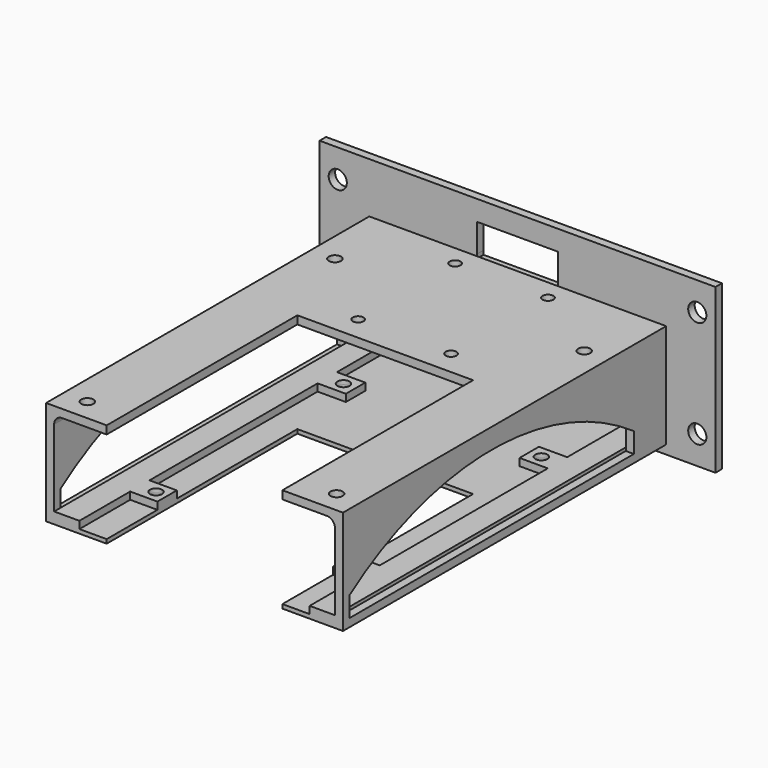
from build123d import *

# Parameters (mm, degrees)
SKETCH020_W        = 98
SKETCH020_H        = 40.5
SKETCH020_R        = 2.25
SKETCH020_W_2      = 53
SKETCH020_H_2      = 18
SKETCH020_W_3      = 20
SKETCH020_H_3      = 7
PAD006_DEPTH       = 2
SKETCH022_W        = 69.5
SKETCH022_H        = 22
PAD007_DEPTH       = 100
POCKET009_DEPTH    = 85.801
SKETCH024_R        = 1.5
SKETCH024_R_2      = 1.325
POCKET010_DEPTH    = 5
SKETCH026_R        = 1.5
POCKET011_DEPTH    = 5
POCKET012_DEPTH    = 5
SKETCH031_W        = 73.5
SKETCH031_H        = 100
PAD013_DEPTH       = 1
PAD013_FACE55_R    = 1.5
PAD014_DEPTH       = 1
PAD014_FACE59_R    = 1.5
PAD015_DEPTH       = 1
PAD015_FACE27_W    = 2
PAD015_FACE27_H    = 53
POCKET013_DEPTH    = 1
POCKET013_FACE28_W = 2
POCKET013_FACE28_H = 53
PAD016_DEPTH       = 1
SKETCH032_W        = 43.5
SKETCH032_H        = 59
POCKET014_DEPTH    = 28.001
POCKET014_FACE11_W = 2
POCKET014_FACE11_H = 20
POCKET015_DEPTH    = 1
FILLET_R           = 2


with BuildPart() as part:
    # Sketch020 → Pad006 (new body)
    with BuildSketch(Plane.XZ):
        with Locations((56.7, 0)):
            Rectangle(SKETCH020_W, SKETCH020_H)
        with Locations((12.2, 13.25)):
            Circle(SKETCH020_R, mode=Mode.SUBTRACT)
        with Locations((12.2, -13.25)):
            Circle(SKETCH020_R, mode=Mode.SUBTRACT)
        with Locations((101.2, -13.25)):
            Circle(SKETCH020_R, mode=Mode.SUBTRACT)
        with Locations((101.2, 13.25)):
            Circle(SKETCH020_R, mode=Mode.SUBTRACT)
        with Locations((56.7, -6.25)):
            Rectangle(SKETCH020_W_2, SKETCH020_H_2, mode=Mode.SUBTRACT)
        with Locations((56.7, 11.75)):
            Rectangle(SKETCH020_W_3, SKETCH020_H_3, mode=Mode.SUBTRACT)
    extrude(amount=-PAD006_DEPTH)

    # Sketch022 (on Face17 of Pad006) → Pad007 (join)
    with BuildSketch(Plane.XZ):
        Polygon((93.5, 7.75), (93.5, -18.05), (20, -18.05), (20, -16.25), (20, 7.75), align=None)
        with Locations((56.75, -5.25)):
            Rectangle(SKETCH022_W, SKETCH022_H, mode=Mode.SUBTRACT)
    extrude(amount=PAD007_DEPTH)

    # Sketch023 (on Face13 of Pad007) → Pocket009 (cut, through all)
    with BuildSketch(Plane(origin=(93.5, 0, 0), x_dir=(0, 0, 1), z_dir=(1, 0, 0))):
        with BuildLine():
            Line((-11.05, 10), (-16.05, 10))
            Line((-16.05, 10), (-16.05, 98))
            Line((-16.05, 98), (-11.05, 98))
            ThreePointArc((-11.05, 10), (2.75, 54), (-11.05, 98))
        make_face()
    extrude(amount=-POCKET009_DEPTH, mode=Mode.SUBTRACT)

    # Sketch024 (on Face11 of Pocket009) → Pocket010 (cut)
    with BuildSketch(Plane(origin=(0, 0, 8.25), x_dir=(-1, 0, 0), z_dir=(0, 0, 1))):
        with Locations((-87.6, 94.6)):
            Circle(SKETCH024_R)
        with Locations((-25.89, 94.6)):
            Circle(SKETCH024_R)
        with Locations((-87.6, 18)):
            Circle(SKETCH024_R)
        with Locations((-25.89, 18)):
            Circle(SKETCH024_R)
        with Locations((-68.245, 5)):
            Circle(SKETCH024_R_2)
        with Locations((-45.245, 5)):
            Circle(SKETCH024_R_2)
        with Locations((-68.245, 35)):
            Circle(SKETCH024_R_2)
        with Locations((-45.245, 35)):
            Circle(SKETCH024_R_2)
    extrude(amount=-POCKET010_DEPTH, mode=Mode.SUBTRACT)

    # Sketch026 → Pocket011 (cut)
    with BuildSketch(Plane(origin=(0, 0, -18.05), x_dir=(1, 0, 0), z_dir=(0, 0, -1))):
        with Locations((81.24, 81.3)):
            Circle(SKETCH026_R)
        with Locations((81.24, 23.3)):
            Circle(SKETCH026_R)
        with Locations((32.25, 81.3)):
            Circle(SKETCH026_R)
        with Locations((32.25, 23.3)):
            Circle(SKETCH026_R)
    extrude(amount=-POCKET011_DEPTH, mode=Mode.SUBTRACT)

    # Sketch027 (on Face14 of Pocket011) → Pocket012 (cut)
    with BuildSketch(Plane(origin=(0, 0, -18.05), x_dir=(1, 0, 0), z_dir=(0, 0, -1))):
        Polygon((28.25, 84.3), (35.25, 84.3), (35.25, 78.3), (28.25, 78.3), (28.25, 26.3), (35.25, 26.3), (35.25, 20.3), (28.25, 20.3), (28.25, 0), (85.24, 0), (85.24, 20.3), (78.24, 20.3), (78.24, 26.3), (85.24, 26.3), (85.24, 78.3), (78.24, 78.3), (78.24, 84.3), (85.24, 84.3), (85.24, 100), (28.25, 100), align=None)
    extrude(amount=-POCKET012_DEPTH, mode=Mode.SUBTRACT)

    # Sketch031 → Pad013 (join)
    with BuildSketch(Plane(origin=(0, 0, -18.05), x_dir=(1, 0, 0), z_dir=(0, 0, -1))):
        with Locations((56.75, 50)):
            Rectangle(SKETCH031_W, SKETCH031_H)
    extrude(amount=-PAD013_DEPTH)

    # Pad013 Face55 → Pad014 (add)
    with BuildSketch(Plane(origin=(25.780917, -50.231246, -16.25), x_dir=(0, 1, 0), z_dir=(0, 0, 1))):
        Polygon((50.231246, -2.469083), (50.231246, 3.780917), (-49.768754, 3.780917), (-49.768754, -2.469083), (-34.068754, -2.469083), (-34.068754, -9.469083), (-28.068754, -9.469083), (-28.068754, -2.469083), (23.931246, -2.469083), (23.931246, -9.469083), (29.931246, -9.469083), (29.931246, -2.469083), align=None)
        with Locations((-31.068754, -6.469083)):
            Circle(PAD013_FACE55_R, mode=Mode.SUBTRACT)
        with Locations((26.931246, -6.469083)):
            Circle(PAD013_FACE55_R, mode=Mode.SUBTRACT)
    extrude(amount=PAD014_DEPTH)

    # Pad014 Face59 → Pad015 (add)
    with BuildSketch(Plane(origin=(87.714523, -50.230914, -16.25), x_dir=(0, 1, 0), z_dir=(0, 0, 1))):
        Polygon((50.230914, -3.785477), (50.230914, 2.474523), (29.930914, 2.474523), (29.930914, 9.474523), (23.930914, 9.474523), (23.930914, 2.474523), (-28.069086, 2.474523), (-28.069086, 9.474523), (-34.069086, 9.474523), (-34.069086, 2.474523), (-49.769086, 2.474523), (-49.769086, -3.785477), align=None)
        with Locations((-31.069086, 6.474523)):
            Circle(PAD014_FACE59_R, mode=Mode.SUBTRACT)
        with Locations((26.930914, 6.474523)):
            Circle(PAD014_FACE59_R, mode=Mode.SUBTRACT)
    extrude(amount=PAD015_DEPTH)

    # Pad015 Face27 → Pocket013 (cut)
    with BuildSketch(Plane(origin=(56.7, 1, 2.75), x_dir=(0, -1, 0), z_dir=(0, 0, -1))):
        Rectangle(PAD015_FACE27_W, PAD015_FACE27_H)
    extrude(amount=-POCKET013_DEPTH, mode=Mode.SUBTRACT)

    # Pocket013 Face28 → Pad016 (add)
    with BuildSketch(Plane(origin=(56.7, 1, -15.25), x_dir=(0, 1, 0), z_dir=(0, 0, 1))):
        Rectangle(POCKET013_FACE28_W, POCKET013_FACE28_H)
    extrude(amount=PAD016_DEPTH)

    # Sketch032 (on Face21 of Pad016) → Pocket014 (cut, through all)
    with BuildSketch(Plane(origin=(0, 0, 7.75), x_dir=(-1, 0, 0), z_dir=(0, 0, 1))):
        with Locations((-56.75, 70.5)):
            Rectangle(SKETCH032_W, SKETCH032_H)
    extrude(amount=-POCKET014_DEPTH, mode=Mode.SUBTRACT)

    # Pocket014 Face11 → Pocket015 (cut)
    with BuildSketch(Plane(origin=(56.7, 1, 8.25), x_dir=(0, 1, 0), z_dir=(0, 0, 1))):
        Rectangle(POCKET014_FACE11_W, POCKET014_FACE11_H)
    extrude(amount=-POCKET015_DEPTH, mode=Mode.SUBTRACT)

    # Fillet
    fillet_edges = [part.edges().sort_by_distance(p)[0] for p in [
        (91.5, -50, 5.75),
        (22, -50, 5.75),
    ]]
    fillet(fillet_edges, radius=FILLET_R)


solid = part.part
